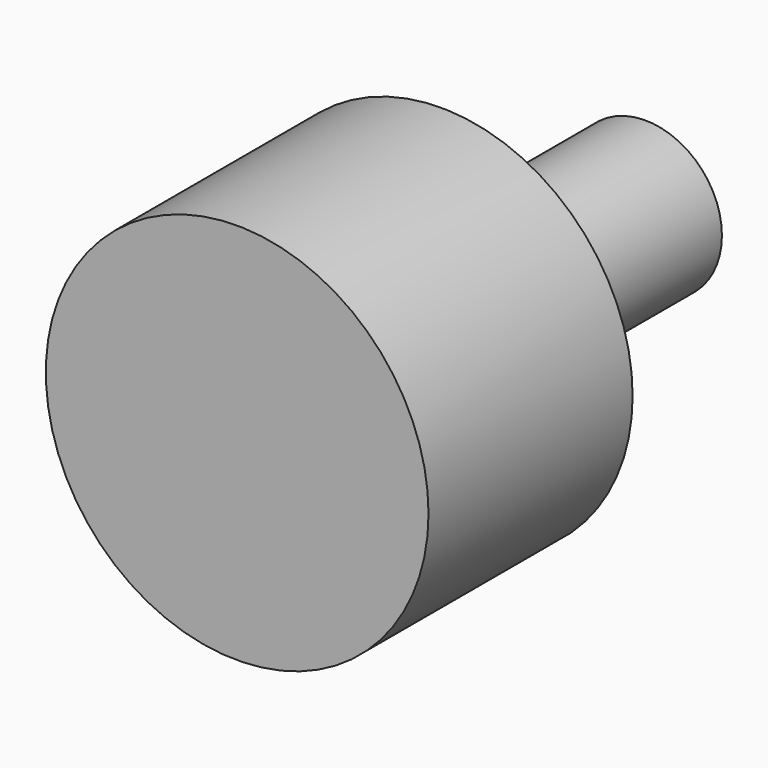
from build123d import *

# Parameters (mm, degrees)
F0_R     = 15
F1_DEPTH = 100
F0_R_2   = 37.5
F2_DEPTH = 50


with BuildPart() as f1:
    # F0 (on Front) → F1 (new body)
    with BuildSketch(Plane.XZ):
        Circle(F0_R)
    extrude(amount=-F1_DEPTH)

    # F0 (on Front) → F2 (join)
    with BuildSketch(Plane.XZ):
        Circle(F0_R_2)
        Circle(F0_R, mode=Mode.SUBTRACT)
    extrude(amount=-F2_DEPTH)


solid = f1.part
